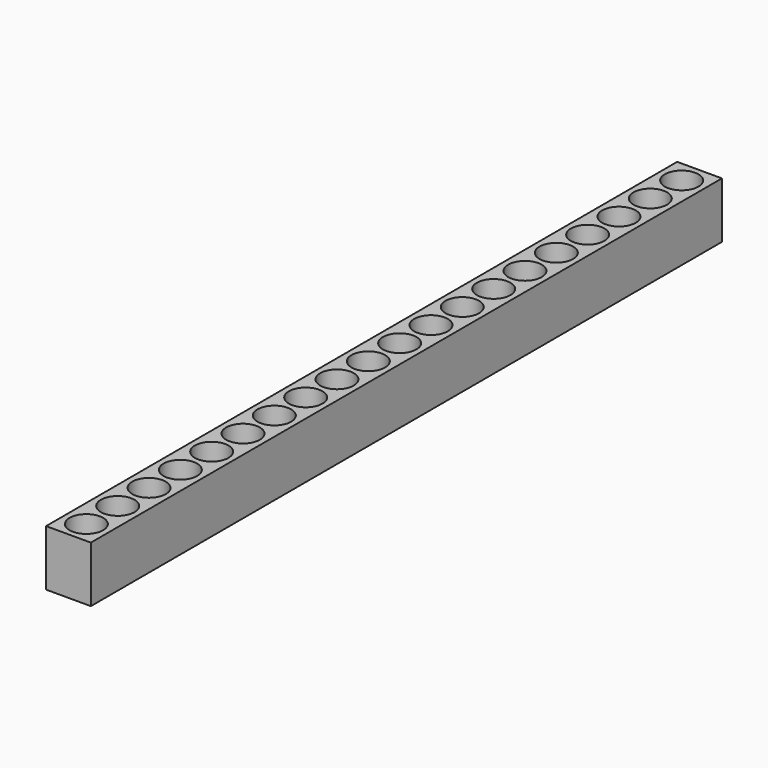
from build123d import *

# Parameters (mm, degrees)
F0_W     = 8
F0_H     = 141
F0_R     = 3
F1_DEPTH = 10


with BuildPart() as f1:
    # F0 (on Top) → F1 (new body)
    with BuildSketch(Plane.XY):
        Rectangle(F0_W, F0_H)
        with Locations((0, -66.5)):
            Circle(F0_R, mode=Mode.SUBTRACT)
        with Locations((0, -59.5)):
            Circle(F0_R, mode=Mode.SUBTRACT)
        with Locations((0, -52.5)):
            Circle(F0_R, mode=Mode.SUBTRACT)
        with Locations((0, -45.5)):
            Circle(F0_R, mode=Mode.SUBTRACT)
        with Locations((0, -38.5)):
            Circle(F0_R, mode=Mode.SUBTRACT)
        with Locations((0, -31.5)):
            Circle(F0_R, mode=Mode.SUBTRACT)
        with Locations((0, -24.5)):
            Circle(F0_R, mode=Mode.SUBTRACT)
        with Locations((0, -17.5)):
            Circle(F0_R, mode=Mode.SUBTRACT)
        with Locations((0, -10.5)):
            Circle(F0_R, mode=Mode.SUBTRACT)
        with Locations((0, -3.5)):
            Circle(F0_R, mode=Mode.SUBTRACT)
        with Locations((0, 3.5)):
            Circle(F0_R, mode=Mode.SUBTRACT)
        with Locations((0, 10.5)):
            Circle(F0_R, mode=Mode.SUBTRACT)
        with Locations((0, 17.5)):
            Circle(F0_R, mode=Mode.SUBTRACT)
        with Locations((0, 24.5)):
            Circle(F0_R, mode=Mode.SUBTRACT)
        with Locations((0, 31.5)):
            Circle(F0_R, mode=Mode.SUBTRACT)
        with Locations((0, 38.5)):
            Circle(F0_R, mode=Mode.SUBTRACT)
        with Locations((0, 45.5)):
            Circle(F0_R, mode=Mode.SUBTRACT)
        with Locations((0, 52.5)):
            Circle(F0_R, mode=Mode.SUBTRACT)
        with Locations((0, 59.5)):
            Circle(F0_R, mode=Mode.SUBTRACT)
        with Locations((0, 66.5)):
            Circle(F0_R, mode=Mode.SUBTRACT)
    extrude(amount=F1_DEPTH)


solid = f1.part
